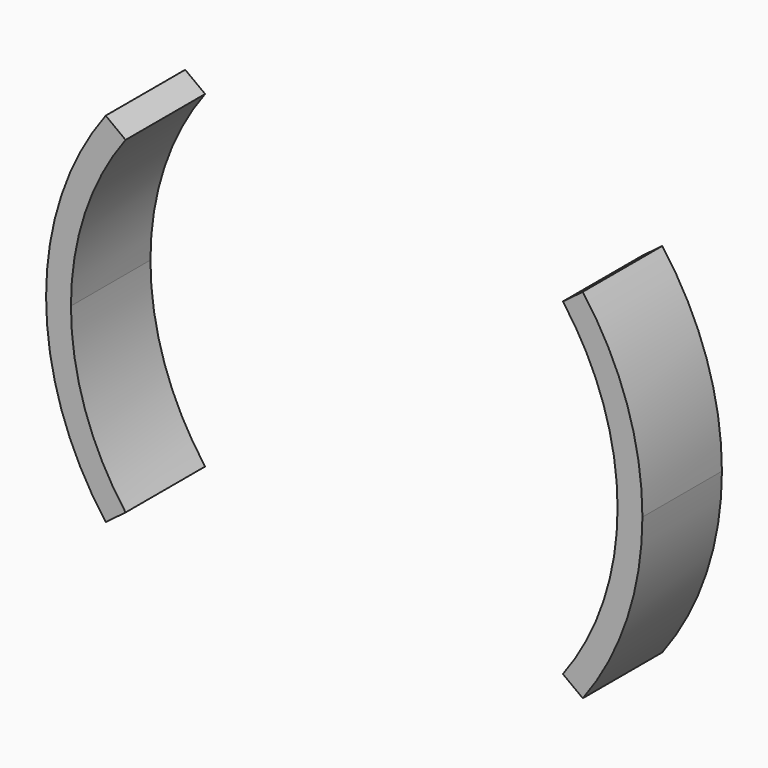
from build123d import *

# Parameters (mm, degrees)
F1_DEPTH = 50.8


with BuildPart() as f1:
    # F0 (on Front) → F1 (new body)
    with BuildSketch(Plane.XZ):
        with BuildLine():
            ThreePointArc((139.7, 0), (132.531057, -44.177019), (111.76, -83.82))
            Line((111.76, -83.82), (121.92, -91.44))
            ThreePointArc((121.92, -91.44), (144.579335, -48.193112), (152.4, 0))
            Line((152.4, 0), (139.7, 0))
        make_face()
        with BuildLine():
            ThreePointArc((111.76, 83.82), (132.531057, 44.177019), (139.7, 0))
            Line((139.7, 0), (152.4, 0))
            ThreePointArc((152.4, 0), (144.579335, 48.193112), (121.92, 91.44))
            Line((121.92, 91.44), (111.76, 83.82))
        make_face()
        with BuildLine():
            ThreePointArc((-121.92, 91.44), (-144.579335, 48.193112), (-152.4, 0))
            Line((-152.4, 0), (-139.7, 0))
            ThreePointArc((-139.7, 0), (-132.531057, 44.177019), (-111.76, 83.82))
            Line((-111.76, 83.82), (-121.92, 91.44))
        make_face()
        with BuildLine():
            Line((-139.7, 0), (-152.4, 0))
            ThreePointArc((-152.4, 0), (-144.579335, -48.193112), (-121.92, -91.44))
            Line((-121.92, -91.44), (-111.76, -83.82))
            ThreePointArc((-111.76, -83.82), (-132.531057, -44.177019), (-139.7, 0))
        make_face()
    extrude(amount=F1_DEPTH)


solid = f1.part
